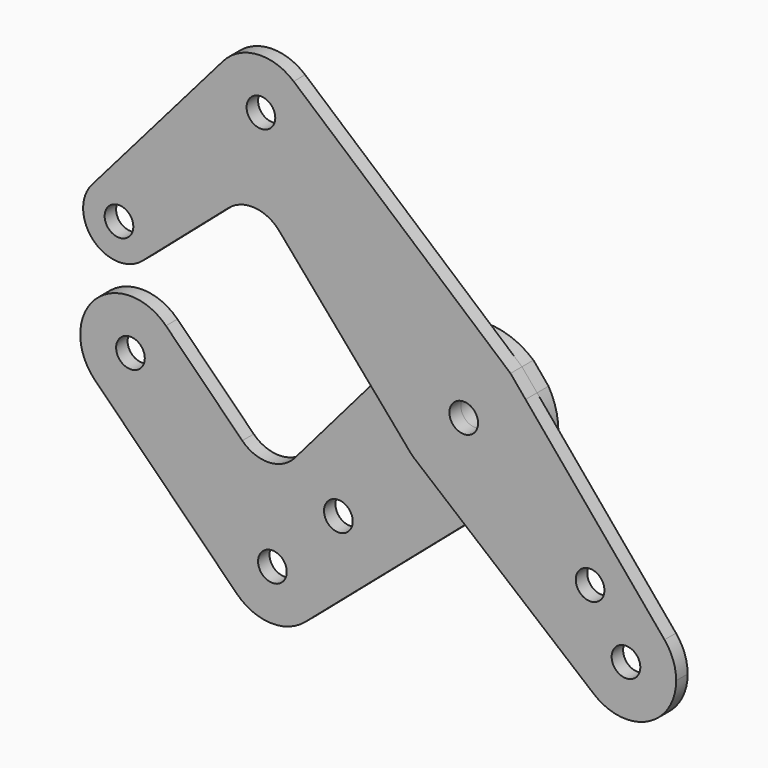
from build123d import *

# Parameters (mm, degrees)
F0_R     = 3.175
F1_DEPTH = 3.175
F2_DEPTH = 3.175


with BuildPart() as f1:
    # F0 (on Front) → F1 (new body)
    with BuildSketch(Plane.XZ):
        with BuildLine():
            ThreePointArc((-82.331405076, 18.6678036462), (-73.5586383483, 20.9075469092), (-68.3946770291, 13.4703841816))
            ThreePointArc((-68.3946770291, 13.4703841816), (-69.1121208226, 10.1727039932), (-71.1347575644, 7.4711561347))
            Line((-71.1347575644, 7.4711561347), (-52.0843267669, 23.9754595323))
            ThreePointArc((-52.0843267669, 23.9754595323), (-46.2965222838, 25.8954961667), (-40.8511612346, 23.1508168672))
            Line((-40.8511612346, 23.1508168672), (-20.9391765456, 0))
            Line((-20.9391765456, 0), (-12.0356034274, 10.3518054047))
            ThreePointArc((-12.0356034274, 10.3518054047), (-1.190625, 15.8302885984), (10.3518054047, 12.0356034274))
            Line((10.3518054047, 12.0356034274), (-37.655016822, 53.3262030046))
            ThreePointArc((-37.655016822, 53.3262030046), (-34.8014845049, 49.5361241819), (-33.7887806053, 44.9012806053))
            ThreePointArc((-33.7887806053, 44.9012806053), (-48.7842347585, 34.4892527868), (-53.300199871, 52.1776678558))
            Line((-53.300199871, 52.1776678558), (-82.331405076, 18.6678036462))
        make_face()
        with BuildLine():
            ThreePointArc((-37.655016822, 53.3262030046), (-45.7148756595, 55.9839571475), (-53.300199871, 52.1776678558))
            ThreePointArc((-53.300199871, 52.1776678558), (-48.7842347585, 34.4892527868), (-33.7887806053, 44.9012806053))
            ThreePointArc((-33.7887806053, 44.9012806053), (-34.8014845049, 49.5361241819), (-37.655016822, 53.3262030046))
        make_face()
        with Locations((-44.9012806053, 44.9012806053)):
            Circle(F0_R, mode=Mode.SUBTRACT)
        with BuildLine():
            ThreePointArc((-71.1347575644, 7.4711561347), (-69.1121208226, 10.1727039932), (-68.3946770291, 13.4703841816))
            ThreePointArc((-68.3946770291, 13.4703841816), (-73.5586383483, 20.9075469092), (-82.331405076, 18.6678036462))
            ThreePointArc((-82.331405076, 18.6678036462), (-81.9448371048, 7.8577241059), (-71.1347575644, 7.4711561347))
        make_face()
        with Locations((-76.3321770291, 13.4703841816)):
            Circle(F0_R, mode=Mode.SUBTRACT)
        with BuildLine():
            Line((13.6886557503, 8.0396721793), (10.3518054047, 12.0356034274))
            ThreePointArc((10.3518054047, 12.0356034274), (-1.190625, 15.8302885984), (-12.0356034274, 10.3518054047))
            ThreePointArc((-12.0356034274, 10.3518054047), (-15.875, 0), (-12.0356034274, -10.3518054047))
            ThreePointArc((-12.0356034274, -10.3518054047), (-11.6386596495, -10.7961672163), (-11.2253201513, -11.2253201513))
            Line((-11.2253201513, -11.2253201513), (-8.9677419672, -13.0994362096))
            ThreePointArc((-8.9677419672, -13.0994362096), (0.8728361512, -15.8509867848), (10.3518054047, -12.0356034274))
            ThreePointArc((10.3518054047, -12.0356034274), (14.4282801435, -6.6212051093), (15.875, 0))
            ThreePointArc((15.875, 0), (15.3186656572, 4.1658261464), (13.6886557503, 8.0396721793))
        make_face()
        Circle(F0_R, mode=Mode.SUBTRACT)
        with BuildLine():
            Line((44.4506274521, -28.7982771588), (13.6886557503, 8.0396721793))
            ThreePointArc((13.6886557503, 8.0396721793), (15.3186656572, 4.1658261464), (15.875, 0))
            ThreePointArc((15.875, 0), (14.4282801435, -6.6212051093), (10.3518054047, -12.0356034274))
            Line((10.3518054047, -12.0356034274), (0.2338236979, -20.7380651153))
            Line((0.2338236979, -20.7380651153), (28.8230791183, -44.4712775701))
            ThreePointArc((28.8230791183, -44.4712775701), (28.0518983355, -28.0747189903), (44.4506274521, -28.7982771588))
        make_face()
        with Locations((27.9745180668, -23.4843900063)):
            Circle(F0_R, mode=Mode.SUBTRACT)
        with BuildLine():
            ThreePointArc((47.0335244843, -35.9210244843), (46.3678629828, -32.132723858), (44.4506274521, -28.7982771588))
            ThreePointArc((44.4506274521, -28.7982771588), (28.0518983355, -28.0747189903), (28.8230791183, -44.4712775701))
            ThreePointArc((28.8230791183, -44.4712775701), (40.6439334592, -45.9799402839), (47.0335244843, -35.9210244843))
        make_face()
        with Locations((35.9210244843, -35.9210244843)):
            Circle(F0_R, mode=Mode.SUBTRACT)
        with BuildLine():
            Line((0.2338236979, -20.7380651153), (10.3518054047, -12.0356034274))
            ThreePointArc((10.3518054047, -12.0356034274), (0.8728361512, -15.8509867848), (-8.9677419672, -13.0994362096))
            Line((-8.9677419672, -13.0994362096), (0.2338236979, -20.7380651153))
        make_face()
        with BuildLine():
            Line((-12.0356034274, 10.3518054047), (-20.9391765456, 0))
            Line((-20.9391765456, 0), (-12.0356034274, -10.3518054047))
            ThreePointArc((-12.0356034274, -10.3518054047), (-15.875, 0), (-12.0356034274, 10.3518054047))
        make_face()
    extrude(amount=F1_DEPTH)


with BuildPart() as f2:
    # F0 (on Front) → F2 (new body)
    with BuildSketch(Plane.XZ):
        with BuildLine():
            ThreePointArc((-65.2196770291, -13.4703841816), (-66.0655657241, -9.2178145394), (-68.4744529232, -5.6126600757))
            ThreePointArc((-68.4744529232, -5.6126600757), (-84.189901135, -5.6126600757), (-84.189901135, -21.3281082875))
            ThreePointArc((-84.189901135, -21.3281082875), (-72.0796073869, -23.7369954866), (-65.2196770291, -13.4703841816))
        make_face()
        with Locations((-76.3321770291, -13.4703841816)):
            Circle(F0_R, mode=Mode.SUBTRACT)
        with BuildLine():
            Line((-12.0356034274, -10.3518054047), (-20.9391765456, 0))
            Line((-20.9391765456, 0), (-39.9257294986, -22.0748567869))
            ThreePointArc((-39.9257294986, -22.0748567869), (-45.654817053, -24.8352728006), (-51.5748000268, -22.512312972))
            Line((-51.5748000268, -22.512312972), (-68.4744529232, -5.6126600757))
            ThreePointArc((-68.4744529232, -5.6126600757), (-66.0655657241, -9.2178145394), (-65.2196770291, -13.4703841816))
            ThreePointArc((-65.2196770291, -13.4703841816), (-72.0796073869, -23.7369954866), (-84.189901135, -21.3281082875))
            Line((-84.189901135, -21.3281082875), (-52.7590047113, -52.7590047113))
            ThreePointArc((-52.7590047113, -52.7590047113), (-49.1538502475, -34.6346693003), (-33.7887806053, -44.9012806053))
            ThreePointArc((-33.7887806053, -44.9012806053), (-34.8014845049, -49.5361241819), (-37.655016822, -53.3262030046))
            Line((-37.655016822, -53.3262030046), (0.2338236979, -20.7380651153))
            Line((0.2338236979, -20.7380651153), (-8.9677419672, -13.0994362096))
            ThreePointArc((-8.9677419672, -13.0994362096), (-10.1399219514, -12.2146472655), (-11.2253201513, -11.2253201513))
            ThreePointArc((-11.2253201513, -11.2253201513), (-11.6386596495, -10.7961672163), (-12.0356034274, -10.3518054047))
        make_face()
        with Locations((-30.2993841525, -30.2993841525)):
            Circle(F0_R, mode=Mode.SUBTRACT)
        with BuildLine():
            ThreePointArc((-52.7590047113, -52.7590047113), (-45.3182930842, -56.0059533535), (-37.655016822, -53.3262030046))
            ThreePointArc((-37.655016822, -53.3262030046), (-34.8014845049, -49.5361241819), (-33.7887806053, -44.9012806053))
            ThreePointArc((-33.7887806053, -44.9012806053), (-49.1538502475, -34.6346693003), (-52.7590047113, -52.7590047113))
        make_face()
        with Locations((-44.9012806053, -44.9012806053)):
            Circle(F0_R, mode=Mode.SUBTRACT)
        with BuildLine():
            Line((13.6886557503, 8.0396721793), (10.3518054047, 12.0356034274))
            ThreePointArc((10.3518054047, 12.0356034274), (-1.190625, 15.8302885984), (-12.0356034274, 10.3518054047))
            ThreePointArc((-12.0356034274, 10.3518054047), (-15.875, 0), (-12.0356034274, -10.3518054047))
            ThreePointArc((-12.0356034274, -10.3518054047), (-11.6386596495, -10.7961672163), (-11.2253201513, -11.2253201513))
            Line((-11.2253201513, -11.2253201513), (-8.9677419672, -13.0994362096))
            ThreePointArc((-8.9677419672, -13.0994362096), (0.8728361512, -15.8509867848), (10.3518054047, -12.0356034274))
            ThreePointArc((10.3518054047, -12.0356034274), (14.4282801435, -6.6212051093), (15.875, 0))
            ThreePointArc((15.875, 0), (15.3186656572, 4.1658261464), (13.6886557503, 8.0396721793))
        make_face()
        Circle(F0_R, mode=Mode.SUBTRACT)
        with BuildLine():
            Line((-12.0356034274, 10.3518054047), (-20.9391765456, 0))
            Line((-20.9391765456, 0), (-12.0356034274, -10.3518054047))
            ThreePointArc((-12.0356034274, -10.3518054047), (-15.875, 0), (-12.0356034274, 10.3518054047))
        make_face()
        with BuildLine():
            Line((0.2338236979, -20.7380651153), (10.3518054047, -12.0356034274))
            ThreePointArc((10.3518054047, -12.0356034274), (0.8728361512, -15.8509867848), (-8.9677419672, -13.0994362096))
            Line((-8.9677419672, -13.0994362096), (0.2338236979, -20.7380651153))
        make_face()
    extrude(amount=-F2_DEPTH)


solid = Compound([f1.part, f2.part])
